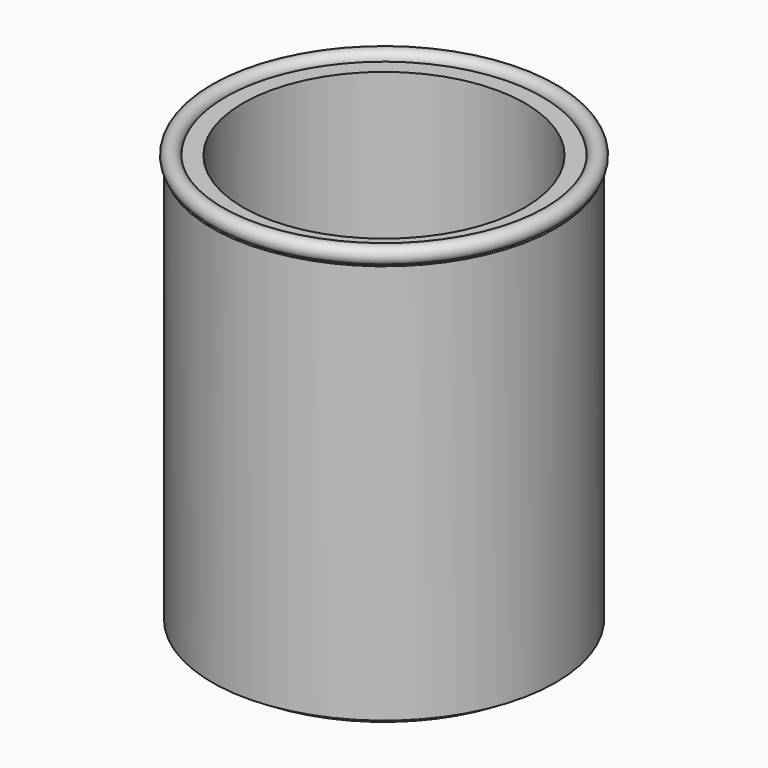
from build123d import *

# Parameters (mm, degrees)
CYLINDER003_R     = 57
CYLINDER003_DEPTH = 3
CYLINDER002_R     = 61.91
CYLINDER002_DEPTH = 3
CYLINDER005_R     = 57
CYLINDER005_DEPTH = 3
CYLINDER004_R     = 61.91
CYLINDER004_DEPTH = 3
CYLINDER001_R     = 50.8
CYLINDER001_DEPTH = 150
CYLINDER_R        = 61.91
CYLINDER_DEPTH    = 150
TORUS_R           = 3
CYLINDER010_R     = 57
CYLINDER010_DEPTH = 3
CYLINDER011_R     = 61.91
CYLINDER011_DEPTH = 3
CYLINDER009_R     = 57
CYLINDER009_DEPTH = 3
CYLINDER008_R     = 61.91
CYLINDER008_DEPTH = 3
CYLINDER006_R     = 50.8
CYLINDER006_DEPTH = 150
CYLINDER007_R     = 61.91
CYLINDER007_DEPTH = 150
CYLINDER016_R     = 57
CYLINDER016_DEPTH = 3
CYLINDER017_R     = 61.91
CYLINDER017_DEPTH = 3
CYLINDER015_R     = 57
CYLINDER015_DEPTH = 3
CYLINDER014_R     = 61.91
CYLINDER014_DEPTH = 3
CYLINDER012_R     = 50.8
CYLINDER012_DEPTH = 150
CYLINDER013_R     = 61.91
CYLINDER013_DEPTH = 150


with BuildPart() as cylinder003:
    # Cylinder003 → Cylinder003 (new body)
    with BuildSketch(Plane.XY):
        Circle(CYLINDER003_R)
    extrude(amount=CYLINDER003_DEPTH)


with BuildPart() as cut001:
    # Cylinder002 → Cylinder002 (new body)
    with BuildSketch(Plane.XY):
        Circle(CYLINDER002_R)
    extrude(amount=CYLINDER002_DEPTH)

    # Cut001: cut Cylinder003
    add(cylinder003.part, mode=Mode.SUBTRACT)


with BuildPart() as cylinder005:
    # Cylinder005 → Cylinder005 (new body)
    with BuildSketch(Plane.XY):
        Circle(CYLINDER005_R)
    extrude(amount=CYLINDER005_DEPTH)


with BuildPart() as cut002:
    # Cylinder004 → Cylinder004 (new body)
    with BuildSketch(Plane.XY):
        Circle(CYLINDER004_R)
    extrude(amount=CYLINDER004_DEPTH)

    # Cut002: cut Cylinder005
    add(cylinder005.part, mode=Mode.SUBTRACT)


with BuildPart() as cut002_1:
    # Cut002 placement: moved
    add(cut002.part.moved(Location((0, 0, 147))))


with BuildPart() as cylinder001:
    # Cylinder001 → Cylinder001 (new body)
    with BuildSketch(Plane.XY):
        Circle(CYLINDER001_R)
    extrude(amount=CYLINDER001_DEPTH)


with BuildPart() as cut004:
    # Cylinder → Cylinder (new body)
    with BuildSketch(Plane.XY):
        Circle(CYLINDER_R)
    extrude(amount=CYLINDER_DEPTH)

    # Cut: cut Cylinder001
    add(cylinder001.part, mode=Mode.SUBTRACT)

    # Cut003: cut Cut002
    add(cut002_1.part, mode=Mode.SUBTRACT)

    # Cut004: cut Cut001
    add(cut001.part, mode=Mode.SUBTRACT)


with BuildPart() as cut004_1:
    # Cut004 placement: moved
    add(cut004.part.moved(Location((100, -500, 0))))


with BuildPart() as torus:
    # Torus → Torus (revolve)
    with BuildSketch(Plane(origin=(100, -500, 150), x_dir=(1, 0, 0), z_dir=(0, -1, 0))):
        with Locations((60, 0)):
            Circle(TORUS_R)
    revolve(axis=Axis((100, -500, 150), (0, 0, 1)))


with BuildPart() as cylinder010:
    # Cylinder010 → Cylinder010 (new body)
    with BuildSketch(Plane.XY):
        Circle(CYLINDER010_R)
    extrude(amount=CYLINDER010_DEPTH)


with BuildPart() as cut007:
    # Cylinder011 → Cylinder011 (new body)
    with BuildSketch(Plane.XY):
        Circle(CYLINDER011_R)
    extrude(amount=CYLINDER011_DEPTH)

    # Cut007: cut Cylinder010
    add(cylinder010.part, mode=Mode.SUBTRACT)


with BuildPart() as cylinder009:
    # Cylinder009 → Cylinder009 (new body)
    with BuildSketch(Plane.XY):
        Circle(CYLINDER009_R)
    extrude(amount=CYLINDER009_DEPTH)


with BuildPart() as cut006:
    # Cylinder008 → Cylinder008 (new body)
    with BuildSketch(Plane.XY):
        Circle(CYLINDER008_R)
    extrude(amount=CYLINDER008_DEPTH)

    # Cut006: cut Cylinder009
    add(cylinder009.part, mode=Mode.SUBTRACT)


with BuildPart() as cut006_1:
    # Cut006 placement: moved
    add(cut006.part.moved(Location((0, 0, 147))))


with BuildPart() as cylinder006:
    # Cylinder006 → Cylinder006 (new body)
    with BuildSketch(Plane.XY):
        Circle(CYLINDER006_R)
    extrude(amount=CYLINDER006_DEPTH)


with BuildPart() as cut005:
    # Cylinder007 → Cylinder007 (new body)
    with BuildSketch(Plane.XY):
        Circle(CYLINDER007_R)
    extrude(amount=CYLINDER007_DEPTH)

    # Cut009: cut Cylinder006
    add(cylinder006.part, mode=Mode.SUBTRACT)

    # Cut008: cut Cut006
    add(cut006_1.part, mode=Mode.SUBTRACT)

    # Cut005: cut Cut007
    add(cut007.part, mode=Mode.SUBTRACT)


with BuildPart() as cut005_1:
    # Cut005 placement: moved
    add(cut005.part.moved(Location((100, -500, 0))))


with BuildPart() as cylinder016:
    # Cylinder016 → Cylinder016 (new body)
    with BuildSketch(Plane.XY):
        Circle(CYLINDER016_R)
    extrude(amount=CYLINDER016_DEPTH)


with BuildPart() as cut012:
    # Cylinder017 → Cylinder017 (new body)
    with BuildSketch(Plane.XY):
        Circle(CYLINDER017_R)
    extrude(amount=CYLINDER017_DEPTH)

    # Cut012: cut Cylinder016
    add(cylinder016.part, mode=Mode.SUBTRACT)


with BuildPart() as cylinder015:
    # Cylinder015 → Cylinder015 (new body)
    with BuildSketch(Plane.XY):
        Circle(CYLINDER015_R)
    extrude(amount=CYLINDER015_DEPTH)


with BuildPart() as cut011:
    # Cylinder014 → Cylinder014 (new body)
    with BuildSketch(Plane.XY):
        Circle(CYLINDER014_R)
    extrude(amount=CYLINDER014_DEPTH)

    # Cut011: cut Cylinder015
    add(cylinder015.part, mode=Mode.SUBTRACT)


with BuildPart() as cut011_1:
    # Cut011 placement: moved
    add(cut011.part.moved(Location((0, 0, 147))))


with BuildPart() as cylinder012:
    # Cylinder012 → Cylinder012 (new body)
    with BuildSketch(Plane.XY):
        Circle(CYLINDER012_R)
    extrude(amount=CYLINDER012_DEPTH)


with BuildPart() as cut010:
    # Cylinder013 → Cylinder013 (new body)
    with BuildSketch(Plane.XY):
        Circle(CYLINDER013_R)
    extrude(amount=CYLINDER013_DEPTH)

    # Cut014: cut Cylinder012
    add(cylinder012.part, mode=Mode.SUBTRACT)

    # Cut013: cut Cut011
    add(cut011_1.part, mode=Mode.SUBTRACT)

    # Cut010: cut Cut012
    add(cut012.part, mode=Mode.SUBTRACT)


with BuildPart() as cut010_1:
    # Cut010 placement: moved
    add(cut010.part.moved(Location((100, -500, 0))))


solid = Compound([cut004_1.part, torus.part, cut005_1.part, cut010_1.part])
